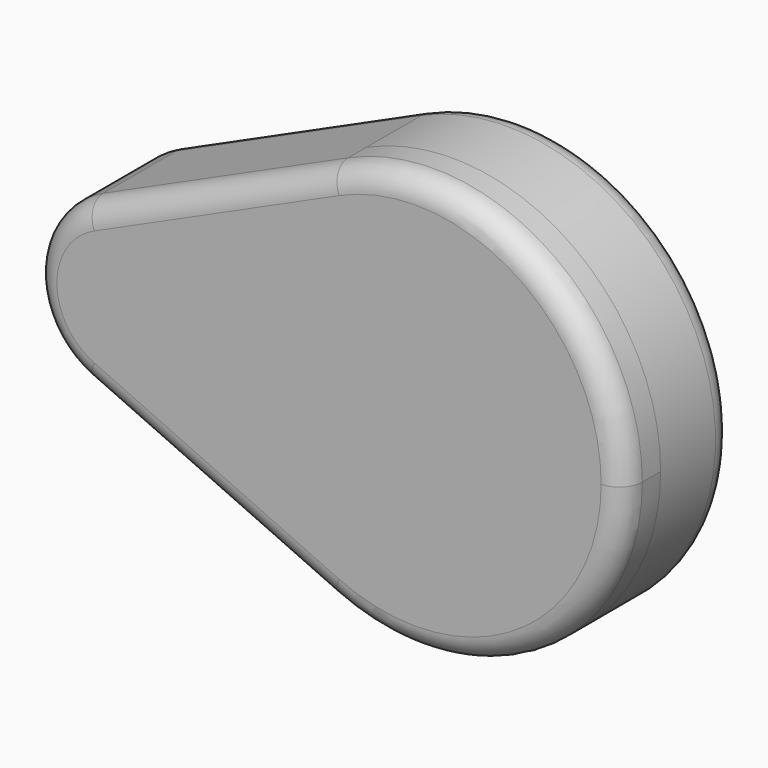
from build123d import *

# Parameters (mm, degrees)
F1_DEPTH = 25.4
F2_R     = 57.300749
F3_DEPTH = 25.4
F4_DEPTH = 50.8
F5_R     = 12.7
F6_R     = 12.7


with BuildPart() as f1:
    # F0 (on Front) → F1 (new body)
    with BuildSketch(Plane.XZ):
        with BuildLine():
            ThreePointArc((-84.642182, -43.85329), (-38.706084, -40.44707), (-16.666076, 0))
            ThreePointArc((-16.666076, 0), (-38.706084, 40.44707), (-84.642182, 43.85329))
            ThreePointArc((-84.642182, 43.85329), (-112.933167, 0), (-84.642182, -43.85329))
        make_face()
        with BuildLine():
            ThreePointArc((51.31003, -105.3684), (1.802586, -62.696194), (-16.666076, 0))
            ThreePointArc((-16.666076, 0), (-38.706084, -40.44707), (-84.642182, -43.85329))
            Line((-84.642182, -43.85329), (51.31003, -105.3684))
        make_face()
        with BuildLine():
            ThreePointArc((-84.642182, 43.85329), (-38.706084, 40.44707), (-16.666076, 0))
            ThreePointArc((-16.666076, 0), (1.802586, 62.696194), (51.31003, 105.3684))
            Line((51.31003, 105.3684), (-84.642182, 43.85329))
        make_face()
        with BuildLine():
            ThreePointArc((51.31003, 105.3684), (1.802586, 62.696194), (-16.666076, 0))
            ThreePointArc((-16.666076, 0), (1.802586, -62.696194), (51.31003, -105.3684))
            ThreePointArc((51.31003, -105.3684), (161.682894, -97.184114), (214.639476, 0))
            ThreePointArc((214.639476, 0), (161.682894, 97.184114), (51.31003, 105.3684))
        make_face()
    extrude(amount=F1_DEPTH)

    # F2 (on Front) → F3 (cut)
    with BuildSketch(Plane.XZ):
        with Locations((105.685264, 0)):
            Circle(F2_R)
    extrude(amount=-F3_DEPTH, mode=Mode.SUBTRACT)

    # F1_face (on face) → F4 (join)
    with BuildSketch(Plane(origin=(66.909918, 0, 0), x_dir=(1, 0, 0), z_dir=(0, 1, 0))):
        with BuildLine():
            ThreePointArc((-151.5521, 43.85329), (-179.843085, 0), (-151.5521, -43.85329))
            Line((-151.5521, -43.85329), (-15.599888, -105.3684))
            ThreePointArc((-15.599888, -105.3684), (147.729558, 0), (-15.599888, 105.3684))
            Line((-15.599888, 105.3684), (-151.5521, 43.85329))
        make_face()
    extrude(amount=F4_DEPTH)

    # F5
    f5_edges = [f1.edges().sort_by_distance(p)[0] for p in [
        (-16.666076, 50.8, 74.610845),
    ]]
    fillet(f5_edges, radius=F5_R)

    # F6
    f6_edges = [f1.edges().sort_by_distance(p)[0] for p in [
        (-16.666076, -25.4, 74.610845),
    ]]
    fillet(f6_edges, radius=F6_R)


solid = f1.part
